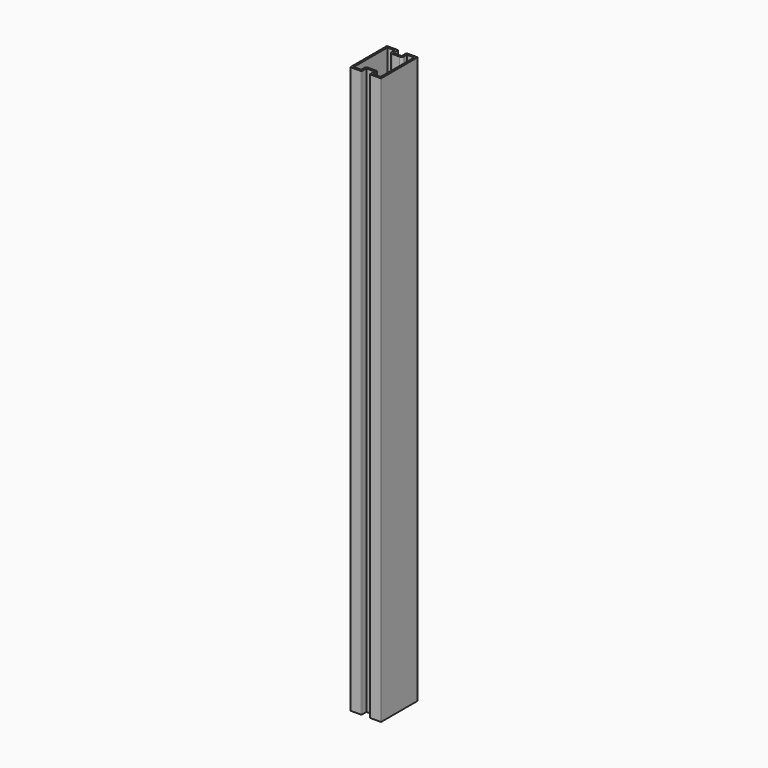
from build123d import *

# Parameters (mm, degrees)
F2_DEPTH = 750


with BuildPart() as f2:
    # F1 (on face) → F2 (new body)
    with BuildSketch(Plane.XY):
        with BuildLine():
            ThreePointArc((19.8, -30.3), (20.153553, -30.153553), (20.3, -29.8))
            Line((20.3, -29.8), (20.3, 29.8))
            ThreePointArc((20.3, 29.8), (20.153553, 30.153553), (19.8, 30.3))
            Line((19.8, 30.3), (6, 30.3))
            ThreePointArc((6, 30.3), (5.646447, 30.153553), (5.5, 29.8))
            Line((5.5, 29.8), (5.5, 22.8))
            ThreePointArc((5.5, 22.8), (5.353553, 22.446447), (5, 22.3))
            Line((5, 22.3), (-5, 22.3))
            ThreePointArc((-5, 22.3), (-5.353553, 22.446447), (-5.5, 22.8))
            Line((-5.5, 22.8), (-5.5, 29.8))
            ThreePointArc((-5.5, 29.8), (-5.646447, 30.153553), (-6, 30.3))
            Line((-6, 30.3), (-19.8, 30.3))
            ThreePointArc((-19.8, 30.3), (-20.153553, 30.153553), (-20.3, 29.8))
            Line((-20.3, 29.8), (-20.3, -29.8))
            ThreePointArc((-20.3, -29.8), (-20.153553, -30.153553), (-19.8, -30.3))
            Line((-19.8, -30.3), (-6, -30.3))
            ThreePointArc((-6, -30.3), (-5.646447, -30.153553), (-5.5, -29.8))
            Line((-5.5, -29.8), (-5.5, -22.8))
            ThreePointArc((-5.5, -22.8), (-5.353553, -22.446447), (-5, -22.3))
            Line((-5, -22.3), (5, -22.3))
            ThreePointArc((5, -22.3), (5.353553, -22.446447), (5.5, -22.8))
            Line((5.5, -22.8), (5.5, -29.8))
            ThreePointArc((5.5, -29.8), (5.646447, -30.153553), (6, -30.3))
            Line((6, -30.3), (19.8, -30.3))
        make_face()
        with BuildLine():
            Line((5, -19.8), (-5, -19.8))
            ThreePointArc((-5, -19.8), (-7.12132, -20.67868), (-8, -22.8))
            Line((-8, -22.8), (-8, -27.8))
            Line((-8, -27.8), (-17.8, -27.8))
            Line((-17.8, -27.8), (-17.8, 27.8))
            Line((-17.8, 27.8), (-8, 27.8))
            Line((-8, 27.8), (-8, 22.8))
            ThreePointArc((-8, 22.8), (-7.12132, 20.67868), (-5, 19.8))
            Line((-5, 19.8), (5, 19.8))
            ThreePointArc((5, 19.8), (7.12132, 20.67868), (8, 22.8))
            Line((8, 22.8), (8, 27.8))
            Line((8, 27.8), (17.8, 27.8))
            Line((17.8, 27.8), (17.8, -27.8))
            Line((17.8, -27.8), (8, -27.8))
            Line((8, -27.8), (8, -22.8))
            ThreePointArc((8, -22.8), (7.12132, -20.67868), (5, -19.8))
        make_face(mode=Mode.SUBTRACT)
    extrude(amount=F2_DEPTH)


solid = f2.part
